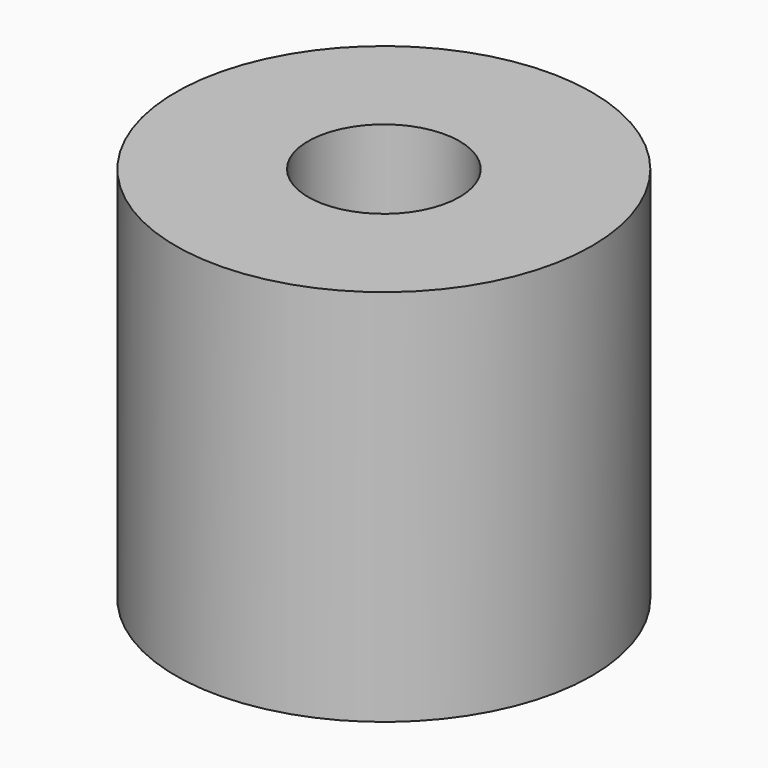
from build123d import *

# Parameters (mm, degrees)
SKETCH_R   = 11
SKETCH_R_2 = 4
PAD_DEPTH  = 10


with BuildPart() as part:
    # Sketch → Pad (new body, symmetric)
    with BuildSketch(Plane.XY):
        Circle(SKETCH_R)
        Circle(SKETCH_R_2, mode=Mode.SUBTRACT)
    extrude(amount=PAD_DEPTH, both=True)


solid = part.part
